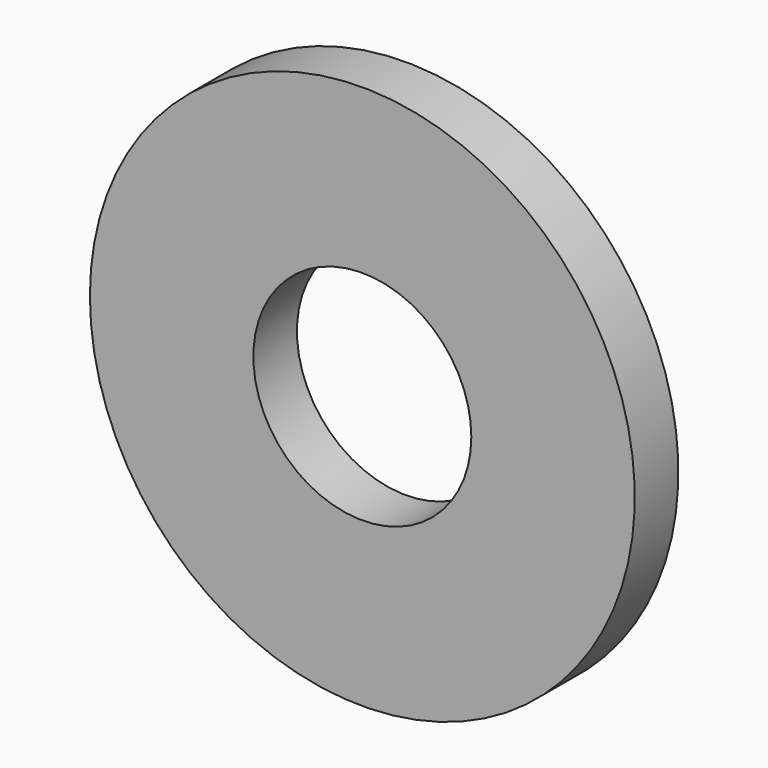
from build123d import *

# Parameters (mm, degrees)
F1_DEPTH = 6.35


with BuildPart() as f1:
    # F0 (on Front) → F1 (new body)
    with BuildSketch(Plane.XZ):
        with BuildLine():
            Line((12.7, 0), (31.75, 0))
            ThreePointArc((31.75, 0), (0, 31.75), (-31.75, 0))
            Line((-31.75, 0), (-12.7, 0))
            ThreePointArc((-12.7, 0), (0, 12.7), (12.7, 0))
        make_face()
        with BuildLine():
            ThreePointArc((-31.75, 0), (0, -31.75), (31.75, 0))
            Line((31.75, 0), (12.7, 0))
            ThreePointArc((12.7, 0), (0, -12.7), (-12.7, 0))
            Line((-12.7, 0), (-31.75, 0))
        make_face()
    extrude(amount=F1_DEPTH)


solid = f1.part
